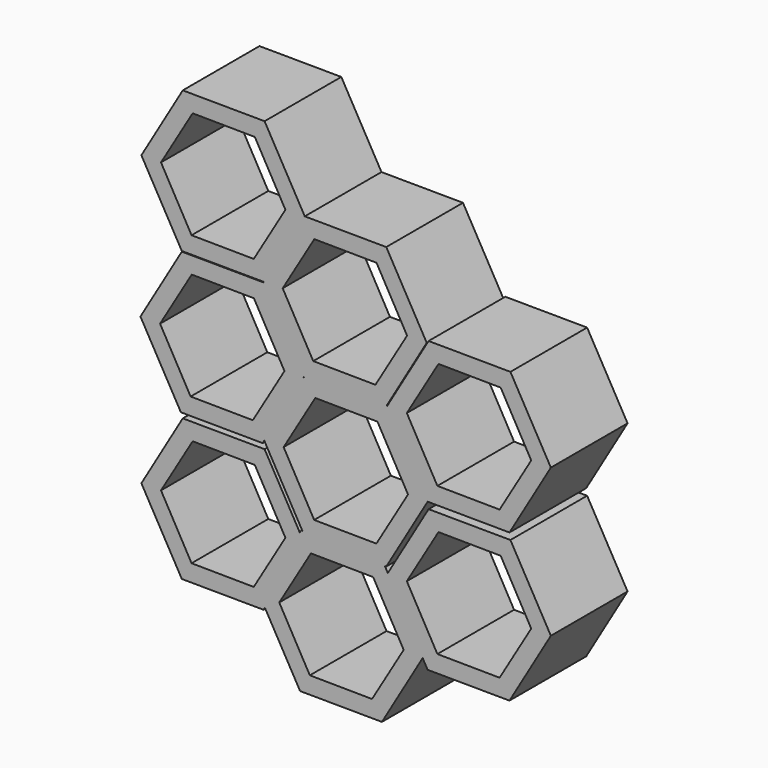
from build123d import *

# Parameters (mm, degrees)
F1_DEPTH = 25.4


with BuildPart() as f1:
    # F0 (on Front) → F1 (new body)
    with BuildSketch(Plane.XZ):
        Polygon((-37.5256026256, 45.1629495667), (-37.4485114416, 45.027359658), (-47.9911484283, 27.0428515349), (-37.8835519015, 9.2653571548), (-16.5829657817, 9.1244142096), (-16.054064132, 8.1941687175), (-15.6790532896, 8.1916873242), (-4.7170456877, 26.8915927664), (-15.4306350481, 45.7349225472), (-15.5873630008, 45.7359595938), (-15.927471531, 45.1557741399), (-37.4463405407, 45.2981614319), align=None)
        Polygon((-18.0099271589, 41.2211516747), (-9.9157319855, 26.8684398219), (-18.2984474766, 12.6823052521), (-34.7753581411, 12.8488825352), (-42.8695533144, 27.2015943881), (-34.4868378233, 41.3877289578), align=None, mode=Mode.SUBTRACT)
        Polygon((-47.9911484283, 27.0428515349), (-37.4485114416, 45.027359658), (-37.5256026256, 45.1629495667), (-48.0682396123, 27.1784414436), align=None)
        Polygon((-48.4105190435, 26.3274542158), (-47.9911484283, 27.0428515349), (-48.0682396123, 27.1784414436), (-37.5256026256, 45.1629495667), (-37.6030684933, 45.2991984785), (-48.1621008021, 63.8706894388), (-69.8376977643, 64.0141137774), (-80.7997053662, 45.3142083352), (-70.0861160058, 26.4708785543), align=None)
        Polygon((-50.7413929128, 59.3569185663), (-42.6471977395, 45.0042067135), (-51.0299132306, 30.8180721437), (-67.506823895, 30.9846494268), (-75.6010190684, 45.3373612797), (-67.2183035773, 59.5234958494), align=None, mode=Mode.SUBTRACT)
        Polygon((-16.5829657817, 9.1244142096), (-37.8835519015, 9.2653571548), (-37.3546502519, 8.3351116627), (-16.054064132, 8.1941687175), align=None)
        Polygon((-37.3546502519, 8.3351116627), (-37.8835519015, 9.2653571548), (-38.2585627439, 9.2678385482), (-38.5972650026, 8.6900520296), (-37.2000922861, 6.2326695996), (-47.8233976294, -11.889449324), (-38.5069809854, -28.2753966749), (-16.8313840231, -28.4188210135), (-6.0362439524, -10.003572102), (-15.430634824, 6.5195182768), (-15.2637672928, 6.8041748076), (-16.054064132, 8.1941687175), align=None)
        Polygon((-19.1622578925, 4.6106433371), (-11.0680627191, -9.7420685157), (-19.4507782102, -23.9282030855), (-35.9276888746, -23.7616258024), (-44.021884048, -9.4089139495), (-35.6391685569, 4.7772206202), align=None, mode=Mode.SUBTRACT)
        Polygon((-48.1621008021, 63.8706894388), (-37.6030684933, 45.2991984785), (-37.4463405407, 45.2981614319), (-37.1062320104, 45.8783468858), (-15.5873630008, 45.7359595938), (-4.9654639292, 63.8556795821), (-15.6790532896, 82.6990093629), (-37.2681492183, 82.8418613365), (-37.2000932002, 82.7221627042), (-48.1621008021, 64.022257262), (-48.2486018356, 64.022829627), align=None)
        Polygon((-18.2583454004, 78.1852384904), (-10.164150227, 63.8325266376), (-18.5468657181, 49.6463920679), (-35.0237763825, 49.8129693509), (-43.1179715559, 64.1656812038), (-34.7352560648, 78.3518157735), align=None, mode=Mode.SUBTRACT)
        Polygon((-37.1062320104, 45.8783468858), (-37.4463405407, 45.2981614319), (-15.927471531, 45.1557741399), (-15.5873630008, 45.7359595938), align=None)
        Polygon((-49.2205703458, -9.4320668941), (-38.5972650026, 8.6900520296), (-47.9136816466, 25.0759993804), (-69.5892786088, 25.219423719), (-80.5512862107, 6.5195182768), (-69.8376968503, -12.323811504), (-48.162099888, -12.4672358426), (-47.8233976294, -11.889449324), align=None)
        Polygon((-50.4929737574, 20.562228508), (-42.398778584, 6.2095166551), (-50.7814940751, -7.9766179146), (-67.2584047395, -7.8100406315), (-75.3525999129, 6.5426712213), (-66.9698844218, 20.7288057911), align=None, mode=Mode.SUBTRACT)
        Polygon((-37.2000922861, 6.2326695996), (-38.5972650026, 8.6900520296), (-49.2205703458, -9.4320668941), (-47.8233976294, -11.889449324), align=None)
        Polygon((-69.8376977643, 64.1656816006), (-48.2486018356, 64.022829627), (-48.3166578537, 64.1425282593), (-37.3546502519, 82.8424337015), (-37.2681492183, 82.8418613365), (-47.9136825606, 101.565492485), (-69.5892795229, 101.7089168236), (-80.5512871247, 83.0090113814), align=None)
        Polygon((-50.4929746714, 97.0517216126), (-42.398779498, 82.6990097597), (-50.7814949891, 68.51287519), (-67.2584056535, 68.6794524731), (-75.3526008269, 83.0321643259), (-66.9698853358, 97.2182988957), align=None, mode=Mode.SUBTRACT)
        Polygon((-48.3166578537, 64.1425282593), (-48.2486018356, 64.022829627), (-48.1621008021, 64.022257262), (-37.2000932002, 82.7221627042), (-37.2681492183, 82.8418613365), (-37.3546502519, 82.8424337015), align=None)
        Polygon((-5.8693764213, -9.7189155712), (-15.2637672928, 6.8041748076), (-15.430634824, 6.5195182768), (-6.0362439524, -10.003572102), align=None)
        Polygon((-4.4686272222, 25.219423719), (-15.2637672928, 6.8041748076), (-5.8693764213, -9.7189155712), (-6.0362439524, -10.003572102), (-4.7170454636, -12.323811504), (16.9585514987, -12.4672358426), (27.9205591005, 6.2326695996), (17.2069697401, 25.0759993804), align=None)
        Polygon((14.6276776293, 20.562228508), (22.7218728027, 6.2095166551), (14.3391573116, -7.9766179146), (-2.1377533528, -7.8100406315), (-10.2319485262, 6.5426712213), (-1.8492330351, 20.7288057911), align=None, mode=Mode.SUBTRACT)
        Polygon((-4.4686274462, 64.4348279895), (-15.4306350481, 45.7349225472), (-4.7170456877, 26.8915927664), (16.9585512746, 26.7481684278), (27.9205588764, 45.4480738701), (17.206969516, 64.2914036509), align=None)
        Polygon((14.6276774052, 59.7776327784), (22.7218725786, 45.4249209255), (14.3391570875, 31.2387863558), (-2.1377535769, 31.4053636389), (-10.2319487503, 45.7580754917), (-1.8492332592, 59.9442100615), align=None, mode=Mode.SUBTRACT)
    extrude(amount=F1_DEPTH)


solid = f1.part
